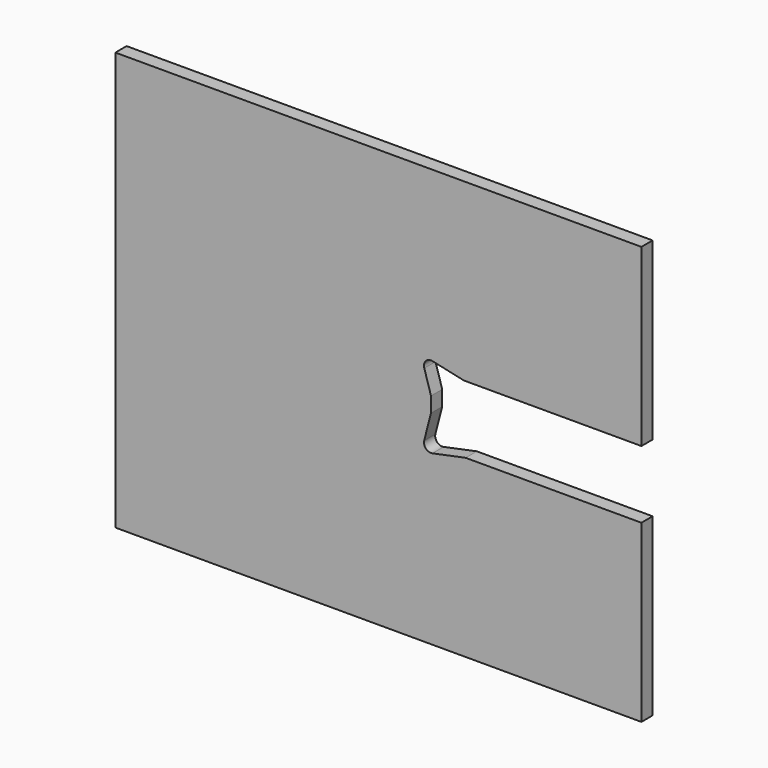
from build123d import *

# Parameters (mm, degrees)
F1_DEPTH = 8


with BuildPart() as f1:
    # F0 (on Front) → F1 (new body)
    with BuildSketch(Plane.XZ):
        with BuildLine():
            Line((-40.111618, 139.580887), (-22.220129, 135.673019))
            Line((-22.220129, 135.673019), (79.034823, 135.673019))
            Line((79.034823, 135.673019), (79.034823, 235.673019))
            Line((79.034823, 235.673019), (-220.965177, 235.673019))
            Line((-220.965177, 235.673019), (-220.965177, -2.826981))
            Line((-220.965177, -2.826981), (79.034823, -2.826981))
            Line((79.034823, -2.826981), (79.034823, 97.173019))
            Line((79.034823, 97.173019), (-21.2248, 97.173019))
            Line((-21.2248, 97.173019), (-40.154655, 93.255997))
            ThreePointArc((-40.154655, 93.255997), (-43.860777, 94.413399), (-44.838716, 98.170865))
            Line((-44.838716, 98.170865), (-40.965177, 113.207552))
            Line((-40.965177, 113.207552), (-40.965177, 121.871973))
            Line((-40.965177, 121.871973), (-44.793486, 134.513686))
            ThreePointArc((-44.793486, 134.513686), (-43.903104, 138.387532), (-40.111618, 139.580887))
        make_face()
    extrude(amount=F1_DEPTH)


solid = f1.part
